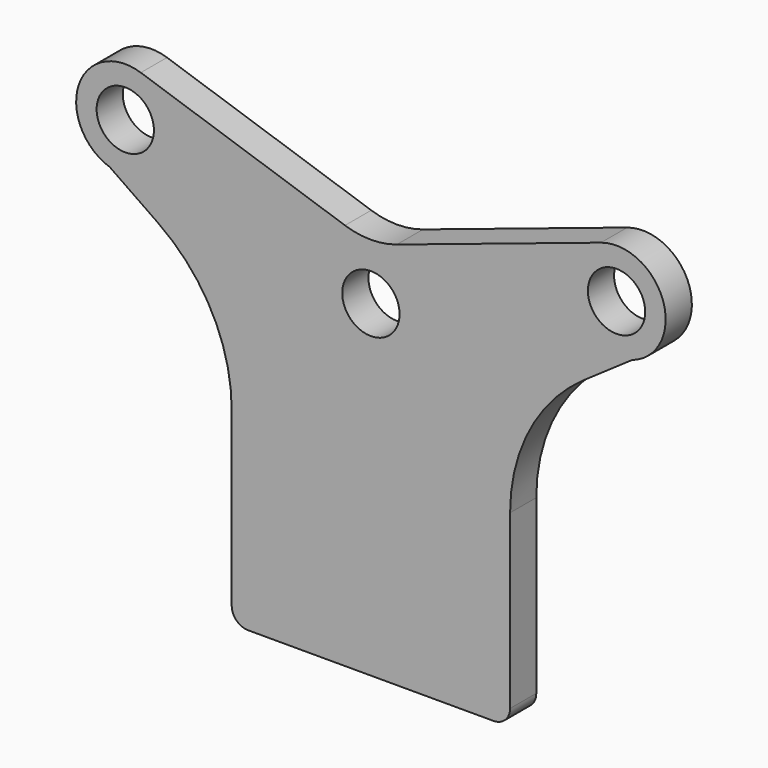
from build123d import *

# Parameters (mm, degrees)
F0_R     = 1.75
F1_DEPTH = 2


with BuildPart() as f1:
    # F0 (on Front) → F1 (new body)
    with BuildSketch(Plane.XZ):
        with BuildLine():
            Line((13.0079, -4.880859), (15.948683, -2.84605))
            ThreePointArc((15.948683, -2.84605), (17.84605, 0.948683), (14.051317, 2.84605))
            Line((14.051317, 2.84605), (1.581139, -1.310676))
            ThreePointArc((1.581139, -1.310676), (0, -1.56726), (-1.581139, -1.310676))
            Line((-1.581139, -1.310676), (-14.051317, 2.84605))
            ThreePointArc((-14.051317, 2.84605), (-17.84605, 0.948683), (-15.948683, -2.84605))
            Line((-15.948683, -2.84605), (-13.0079, -4.880859))
            ThreePointArc((-13.0079, -4.880859), (-9.695273, -8.626463), (-8.5, -13.481807))
            Line((-8.5, -13.481807), (-8.5, -24))
            ThreePointArc((-8.5, -24), (-8.207107, -24.707107), (-7.5, -25))
            Line((-7.5, -25), (0, -25))
            Line((0, -25), (7.5, -25))
            ThreePointArc((7.5, -25), (8.207107, -24.707107), (8.5, -24))
            Line((8.5, -24), (8.5, -13.481807))
            ThreePointArc((8.5, -13.481807), (9.695273, -8.626463), (13.0079, -4.880859))
        make_face()
        with Locations((-15, 0)):
            Circle(F0_R, mode=Mode.SUBTRACT)
        with Locations((0, -5)):
            Circle(F0_R, mode=Mode.SUBTRACT)
        with Locations((15, 0)):
            Circle(F0_R, mode=Mode.SUBTRACT)
    extrude(amount=F1_DEPTH)


solid = f1.part
